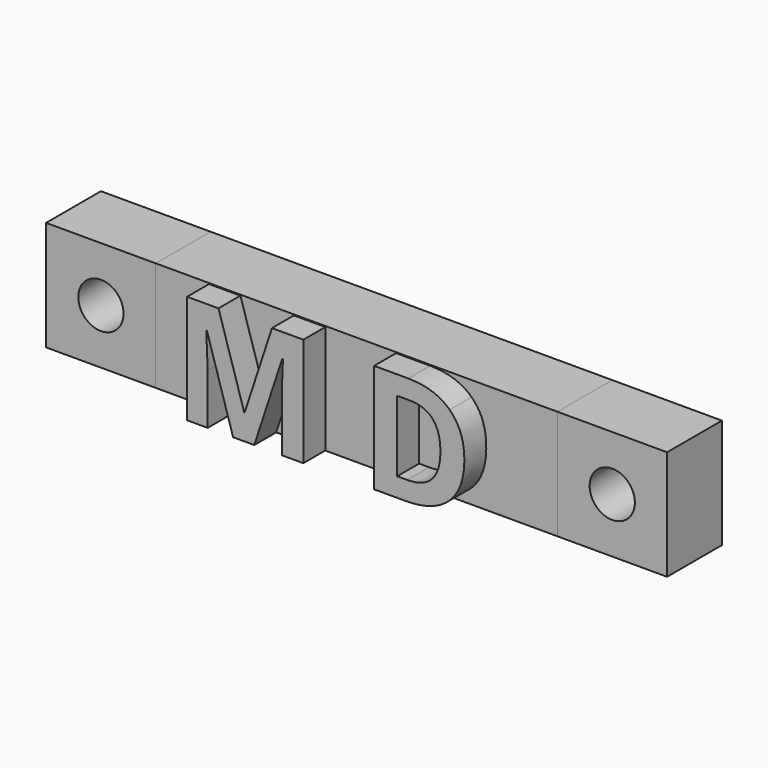
from build123d import *

# Parameters (mm, degrees)
F0_W       = 8
F0_H       = 8
F1_DEPTH   = 5
F3_D       = 3.3
F3_DEPTH   = 25
F3_TIP     = 0.9914200214
F3_2_D     = 3.3
F3_2_DEPTH = 25
F3_2_TIP   = 0.9914200214
F4_W       = 29.3
F4_H       = 8
F5_DEPTH   = 5
F7_DEPTH   = 2


with BuildPart() as f1:
    # F0 (on Front) → F1 (new body)
    with BuildSketch(Plane.XZ):
        with Locations((-18.65, 0)):
            Rectangle(F0_W, F0_H)
    extrude(amount=F1_DEPTH)

    # F3
    with Locations(Plane.XZ.offset(5)):
        with Locations((-18.65, 0), (18.65, 0)):
            Hole(F3_D / 2, depth=F3_DEPTH)
            with Locations((0, 0, -(F3_DEPTH + F3_TIP / 2))):  # 118° drill point
                Cone(0, F3_D / 2, F3_TIP, mode=Mode.SUBTRACT)


with BuildPart() as f1b:
    # F0 (on Front) → F1, piece 2 (new body)
    with BuildSketch(Plane.XZ):
        with Locations((18.65, 0)):
            Rectangle(F0_W, F0_H)
    extrude(amount=F1_DEPTH)

    # F3#2
    with Locations(Plane.XZ.offset(5)):
        with Locations((-18.65, 0), (18.65, 0)):
            Hole(F3_2_D / 2, depth=F3_2_DEPTH)
            with Locations((0, 0, -(F3_2_DEPTH + F3_2_TIP / 2))):  # 118° drill point
                Cone(0, F3_2_D / 2, F3_2_TIP, mode=Mode.SUBTRACT)


with BuildPart() as f5:
    # F4 (on face) → F5 (new body)
    with BuildSketch(Plane.XZ.offset(5)):
        Rectangle(F4_W, F4_H)
    extrude(amount=-F5_DEPTH)

    # F6 (on face) → F7 (join)
    with BuildSketch(Plane.XZ.offset(5)):
        with BuildLine():
            Line((-9.3166666667, 2.2222222222), (-7.4069444444, -4))
            Line((-7.4069444444, -4), (-5.8652777778, -4))
            Line((-5.8652777778, -4), (-3.8201388889, 2.2118055556))
            Line((-3.8201388889, 2.2118055556), (-3.7715277778, 2.2118055556))
            add(Edge.make_bspline(
                [(-3.8444444444, 0.3680555556), (-3.8357638889, 0.7152777778), (-3.7715277778, 2.2118055556)],
                knots=[0, 0, 0, 1, 1, 1], degree=2))
            add(Edge.make_bspline(
                [(-3.853125, -0.2447916667), (-3.853125, 0.0208333333), (-3.8444444444, 0.3680555556)],
                knots=[0, 0, 0, 1, 1, 1], degree=2))
            Line((-3.853125, -0.2447916667), (-3.853125, -4))
            Line((-3.853125, -4), (-2.2854166667, -4))
            Line((-2.2854166667, -4), (-2.2854166667, 3.9322916667))
            Line((-2.2854166667, 3.9322916667), (-4.5736111111, 3.9322916667))
            Line((-4.5736111111, 3.9322916667), (-6.5649305556, -2.1336805556))
            Line((-6.5649305556, -2.1336805556), (-6.5979166667, -2.1336805556))
            Line((-6.5979166667, -2.1336805556), (-8.4746527778, 3.9322916667))
            Line((-8.4746527778, 3.9322916667), (-10.7645833333, 3.9322916667))
            Line((-10.7645833333, 3.9322916667), (-10.7645833333, -4))
            Line((-10.7645833333, -4), (-9.2611111111, -4))
            Line((-9.2611111111, -4), (-9.2611111111, -0.3107638889))
            add(Edge.make_bspline(
                [(-9.3652777778, 2.2222222222), (-9.2611111111, 0.3246527778), (-9.2611111111, -0.3107638889)],
                knots=[0, 0, 0, 1, 1, 1], degree=2))
            Line((-9.3652777778, 2.2222222222), (-9.3166666667, 2.2222222222))
        make_face()
        with BuildLine():
            Line((2.8795138889, 3.9322916667), (2.8795138889, -4))
            Line((2.8795138889, -4), (5.1260416667, -4))
            add(Edge.make_bspline(
                [(8.3456597222, -2.9583333333), (7.2302083333, -4), (5.1260416667, -4)],
                knots=[0, 0, 0, 1, 1, 1], degree=2))
            add(Edge.make_bspline(
                [(9.4611111111, 0.0416666667), (9.4611111111, -1.9166666667), (8.3456597222, -2.9583333333)],
                knots=[0, 0, 0, 1, 1, 1], degree=2))
            add(Edge.make_bspline(
                [(8.3864583333, 2.9071180556), (9.4611111111, 1.8819444444), (9.4611111111, 0.0416666667)],
                knots=[0, 0, 0, 1, 1, 1], degree=2))
            add(Edge.make_bspline(
                [(5.3690972222, 3.9322916667), (7.3118055556, 3.9322916667), (8.3864583333, 2.9071180556)],
                knots=[0, 0, 0, 1, 1, 1], degree=2))
            Line((5.3690972222, 3.9322916667), (2.8795138889, 3.9322916667))
        make_face()
        with BuildLine():
            add(Edge.make_bspline(
                [(7.7128472222, -0.0017361111), (7.7128472222, 2.5538194444), (5.4559027778, 2.5538194444)],
                knots=[0, 0, 0, 1, 1, 1], degree=2))
            add(Edge.make_bspline(
                [(5.2822916667, -2.6111111111), (7.7128472222, -2.6111111111), (7.7128472222, -0.0017361111)],
                knots=[0, 0, 0, 1, 1, 1], degree=2))
            Line((5.2822916667, -2.6111111111), (4.5618055556, -2.6111111111))
            Line((4.5618055556, -2.6111111111), (4.5618055556, 2.5538194444))
            Line((4.5618055556, 2.5538194444), (5.4559027778, 2.5538194444))
        make_face(mode=Mode.SUBTRACT)
    extrude(amount=F7_DEPTH)


solid = Compound([f1.part, f1b.part, f5.part])
